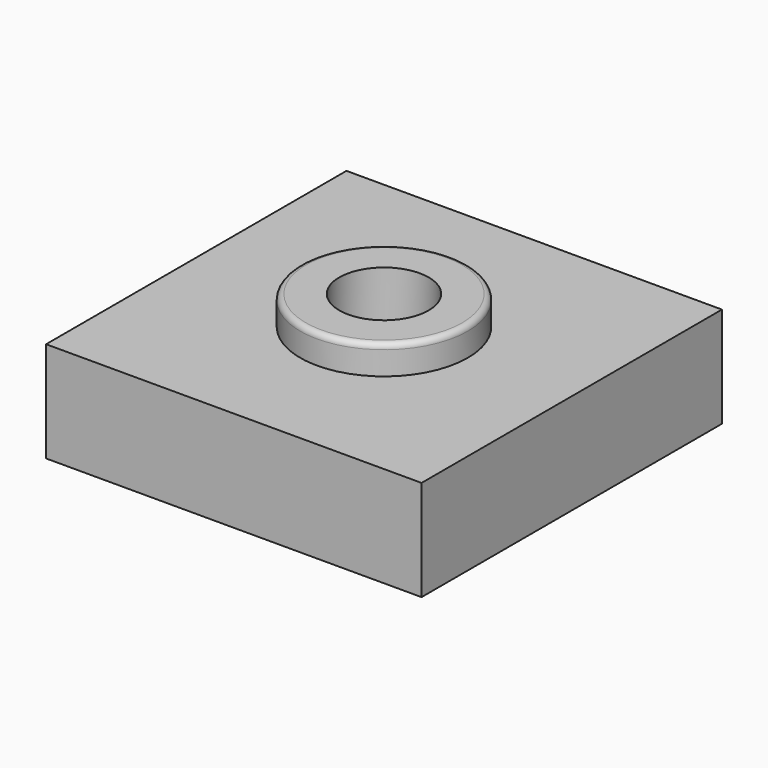
from build123d import *

# Parameters (mm, degrees)
SKETCH_W      = 16.8
SKETCH_H      = 16.8
SKETCH_R      = 2
PAD_DEPTH     = 4.5
SKETCH002_R   = 3.75
SKETCH002_R_2 = 2
PAD001_DEPTH  = 1.3
POCKET_DEPTH  = 3.5
FILLET_R      = 0.25


with BuildPart() as part:
    # Sketch → Pad (new body)
    with BuildSketch(Plane.XY):
        with Locations((8.4, 8.4)):
            Rectangle(SKETCH_W, SKETCH_H)
        with Locations((8.4, 8.4)):
            Circle(SKETCH_R, mode=Mode.SUBTRACT)
    extrude(amount=PAD_DEPTH)

    # Sketch002 (on Face7 of Pad) → Pad001 (join)
    with BuildSketch(Plane.XY.offset(4.5)):
        with Locations((8.4, 8.4)):
            Circle(SKETCH002_R)
        with Locations((8.4, 8.4)):
            Circle(SKETCH002_R_2, mode=Mode.SUBTRACT)
    extrude(amount=PAD001_DEPTH)

    # Sketch001 → Pocket (cut)
    with BuildSketch(Plane.XY):
        Polygon((12.45, 8.4), (10.425, 11.907403), (6.375, 11.907403), (4.35, 8.4), (6.375, 4.892597), (10.425, 4.892597), align=None)
    extrude(amount=POCKET_DEPTH, mode=Mode.SUBTRACT)

    # Fillet
    fillet_edges = [part.edges().sort_by_distance(p)[0] for p in [
        (4.65, 8.4, 5.8),
    ]]
    fillet(fillet_edges, radius=FILLET_R)


solid = part.part
